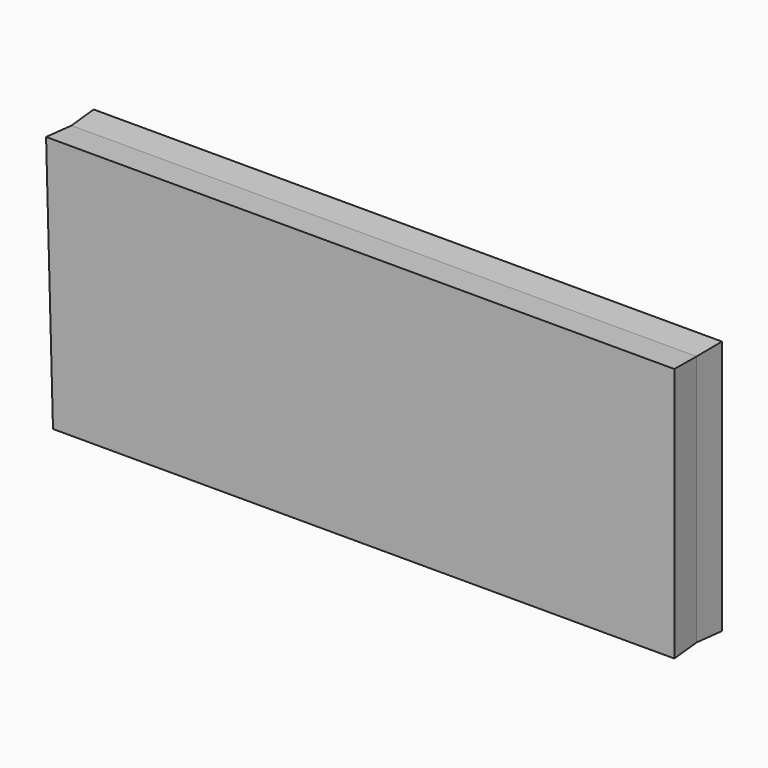
from build123d import *

# Parameters (mm, degrees)
F1_DEPTH = 12.7
F1_TAPER = -3


with BuildPart() as f1:
    # F0 (on Front) → F1 (new body, symmetric)
    with BuildSketch(Plane.XZ):
        Polygon((147.9144990444, 156.5441638231), (-119.0584152937, 156.5441638231), (-116.1468625069, 49.0151830018), (147.9144990444, 49.0151830018), align=None)
    extrude(amount=F1_DEPTH, both=True, taper=F1_TAPER)


solid = f1.part
